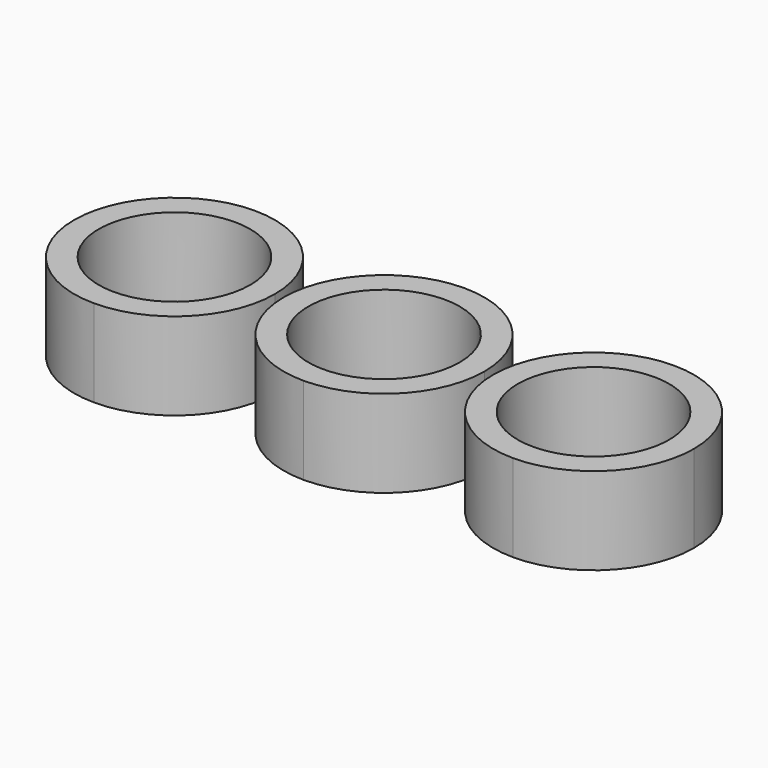
from build123d import *

# Parameters (mm, degrees)
F0_R     = 11.0109
F1_DEPTH = 12.7


with BuildPart() as f1:
    # F0 (on Top) → F1 (new body)
    with BuildSketch(Plane.XY):
        with BuildLine():
            ThreePointArc((-30.48, -14.605), (-20.152705, -10.327295), (-15.875, 0))
            ThreePointArc((-15.875, 0), (-20.152705, 10.327295), (-30.48, 14.605))
            ThreePointArc((-30.48, 14.605), (-45.085, 0), (-30.48, -14.605))
        make_face()
        with Locations((-30.48, 0)):
            Circle(F0_R, mode=Mode.SUBTRACT)
        with BuildLine():
            ThreePointArc((-11.0109, 0), (0, 11.0109), (11.0109, 0))
            Line((11.0109, 0), (14.605, 0))
            ThreePointArc((14.605, 0), (10.327295, 10.327295), (0, 14.605))
            ThreePointArc((0, 14.605), (-10.327295, 10.327295), (-14.605, 0))
            Line((-14.605, 0), (-11.0109, 0))
        make_face()
        with BuildLine():
            Line((14.605, 0), (11.0109, 0))
            ThreePointArc((11.0109, 0), (0, -11.0109), (-11.0109, 0))
            Line((-11.0109, 0), (-14.605, 0))
            ThreePointArc((-14.605, 0), (-10.327295, -10.327295), (0, -14.605))
            ThreePointArc((0, -14.605), (10.327295, -10.327295), (14.605, 0))
        make_face()
        with BuildLine():
            ThreePointArc((30.48, 14.605), (20.152705, 10.327295), (15.875, 0))
            ThreePointArc((15.875, 0), (20.152705, -10.327295), (30.48, -14.605))
            ThreePointArc((30.48, -14.605), (40.807295, -10.327295), (45.085, 0))
            ThreePointArc((45.085, 0), (40.807295, 10.327295), (30.48, 14.605))
        make_face()
        with BuildLine():
            ThreePointArc((41.4909, 0), (30.48, -11.0109), (19.4691, 0))
            ThreePointArc((19.4691, 0), (30.48, 11.0109), (41.4909, 0))
        make_face(mode=Mode.SUBTRACT)
    extrude(amount=F1_DEPTH)


solid = f1.part
